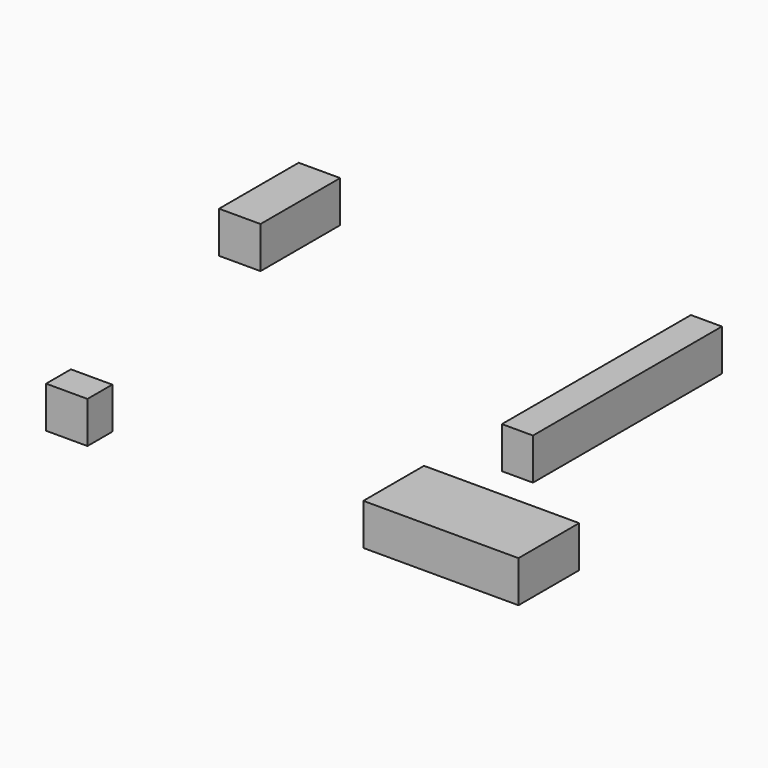
from build123d import *

# Parameters (mm, degrees)
F0_W     = 5
F0_H     = 12
F0_W_2   = 3.739974
F0_H_2   = 28.465352
F0_W_3   = 4.986631
F0_H_3   = 3.739973
F0_W_4   = 18.699865
F0_H_4   = 9.142156
F1_DEPTH = 5


with BuildPart() as f1:
    # F0 (on Top) → F1 (new body)
    with BuildSketch(Plane.XY):
        with Locations((-39.373601, 28.424799)):
            Rectangle(F0_W, F0_H)
        with Locations((8.207164, 19.011532)):
            Rectangle(F0_W_2, F0_H_2)
        with Locations((-29.815892, -13.713231)):
            Rectangle(F0_W_3, F0_H_3)
        with Locations((15.271556, -11.01214)):
            Rectangle(F0_W_4, F0_H_4)
    extrude(amount=F1_DEPTH)


solid = f1.part
